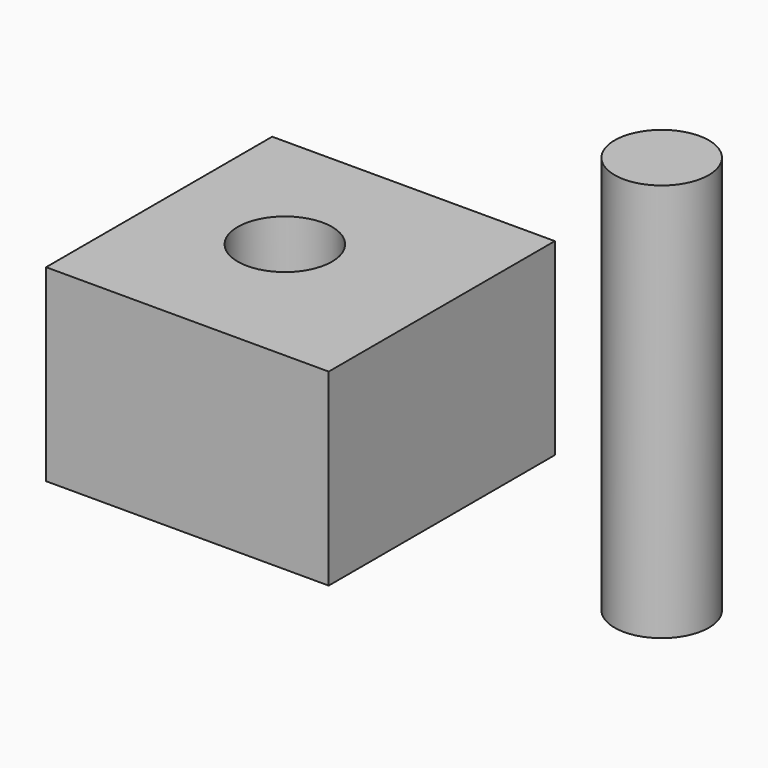
from build123d import *

# Parameters (mm, degrees)
F0_W     = 30
F0_H     = 30
F1_DEPTH = 10
F3_R     = 5
F4_DEPTH = 42.3


with BuildPart() as f1:
    # F0 (on Top) → F1 (new body, symmetric)
    with BuildSketch(Plane.XY):
        with Locations((-29.5192307234, 15)):
            Rectangle(F0_W, F0_H)
    extrude(amount=F1_DEPTH, both=True)


with BuildPart() as f4:
    # F3 (on offset) → F4 (new body)
    with BuildSketch(Plane.XY.offset(20)):
        with Locations((-31.6346175969, 15.5769241974)):
            Circle(F3_R)
    extrude(amount=-F4_DEPTH)


with BuildPart() as f1_1:
    add(f1.part)

    # F5: cut F4
    add(f4.part, mode=Mode.SUBTRACT)


with BuildPart() as f4_1:
    # F6: moved
    add(f4.part.moved(Location((40, 0, 11.1))))


solid = Compound([f1_1.part, f4_1.part])
